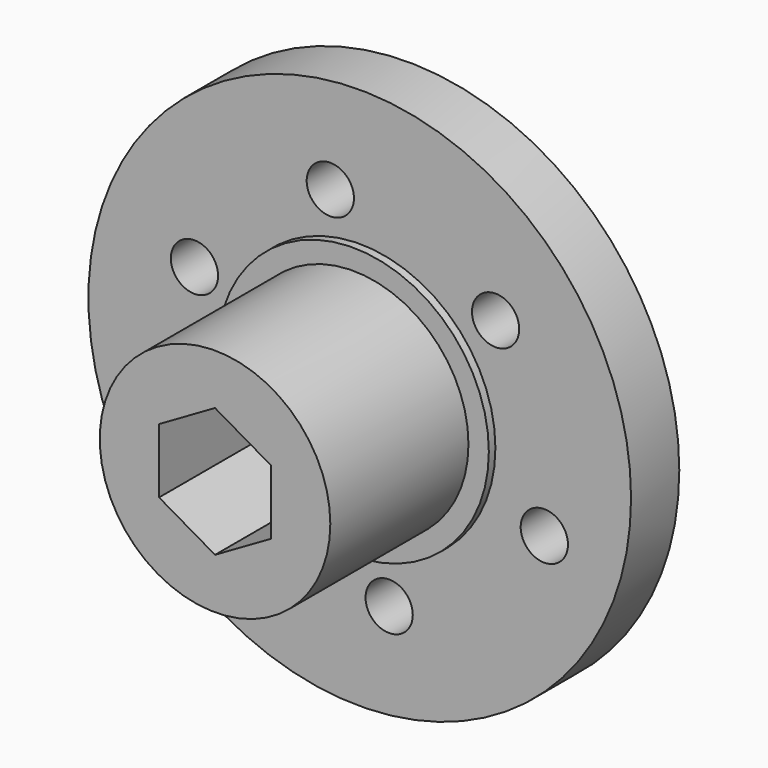
from build123d import *

# Parameters (mm, degrees)
F0_R     = 12.1412
F1_DEPTH = 25.4
F0_R_2   = 28.575
F0_R_3   = 2.48793
F0_R_4   = 14.2875
F0_R_5   = 2.4892
F2_DEPTH = 6.35
F3_DEPTH = 7.2136


with BuildPart() as f1:
    # F0 (on Front) → F1 (new body)
    with BuildSketch(Plane.XZ):
        Circle(F0_R)
        Polygon((0, 6.805909), (5.894091, 3.402955), (5.894091, -3.402955), (0, -6.805909), (-5.894091, -3.402955), (-5.894091, 3.402955), align=None, mode=Mode.SUBTRACT)
    extrude(amount=F1_DEPTH)


with BuildPart() as f2:
    # F0 (on Front) → F2 (new body)
    with BuildSketch(Plane.XZ):
        Circle(F0_R_2)
        with Locations((-14.307495, -11.838349)):
            Circle(F0_R_3, mode=Mode.SUBTRACT)
        with Locations((3.098563, -18.309829)):
            Circle(F0_R_3, mode=Mode.SUBTRACT)
        with Locations((19.439049, -6.47148)):
            Circle(F0_R_3, mode=Mode.SUBTRACT)
        with Locations((-17.406059, 6.47148)):
            Circle(F0_R_3, mode=Mode.SUBTRACT)
        with Locations((-3.098563, 18.309829)):
            Circle(F0_R_3, mode=Mode.SUBTRACT)
        Circle(F0_R_4, mode=Mode.SUBTRACT)
        with Locations((14.307495, 11.838349)):
            Circle(F0_R_5, mode=Mode.SUBTRACT)
    extrude(amount=F2_DEPTH)


with BuildPart() as f3:
    # F0 (on Front) → F3 (new body)
    with BuildSketch(Plane.XZ):
        Circle(F0_R_4)
        Circle(F0_R, mode=Mode.SUBTRACT)
    extrude(amount=F3_DEPTH)


solid = Compound([f1.part, f2.part, f3.part])
